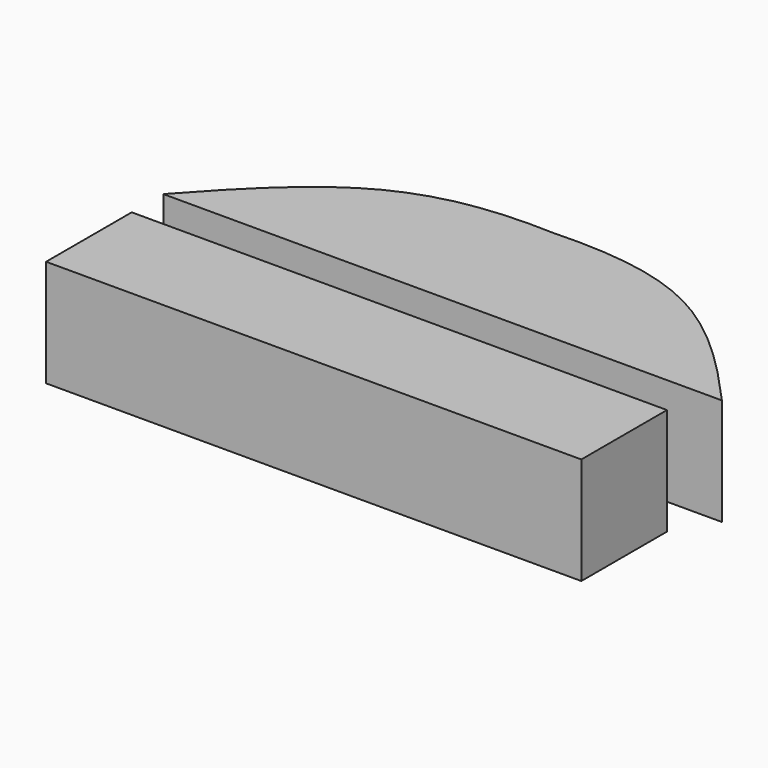
from build123d import *

# Parameters (mm, degrees)
F1_DEPTH = 20
F0_W     = 100
F0_H     = 20
F2_DEPTH = 20


with BuildPart() as f1:
    # F0 (on Top) → F1 (new body)
    with BuildSketch(Plane.XY):
        with BuildLine():
            add(Edge.make_bspline(
                [(-52.1825432403, -10.4365086481), (-44.7346413917, -2.1528527071), (-29.6991356564, 13.5494612884), (-10.8333339813, 15.9375015795), (0, 15.5208350748)],
                knots=[0, 0, 0, 0, 0.5120252548, 1, 1, 1, 1], degree=3))
            Line((-52.1825432403, -10.4365086481), (0, -10.4365086481))
            Line((0, -10.4365086481), (0, 15.5208350748))
        make_face()
        with BuildLine():
            add(Edge.make_bspline(
                [(52.1825432403, -10.4365086481), (44.7346413917, -2.1528527071), (29.6991356564, 13.5494612884), (10.8333339813, 15.9375015795), (0, 15.5208350748)],
                knots=[0, 0, 0, 0, 0.5120252548, 1, 1, 1, 1], degree=3))
            Line((0, 15.5208350748), (0, -10.4365086481))
            Line((0, -10.4365086481), (52.1825432403, -10.4365086481))
        make_face()
    extrude(amount=F1_DEPTH)


with BuildPart() as f2:
    # F0 (on Top) → F2 (new body)
    with BuildSketch(Plane.XY):
        with Locations((-2.1825432403, -27.8125027944)):
            Rectangle(F0_W, F0_H)
    extrude(amount=F2_DEPTH)


solid = Compound([f1.part, f2.part])
